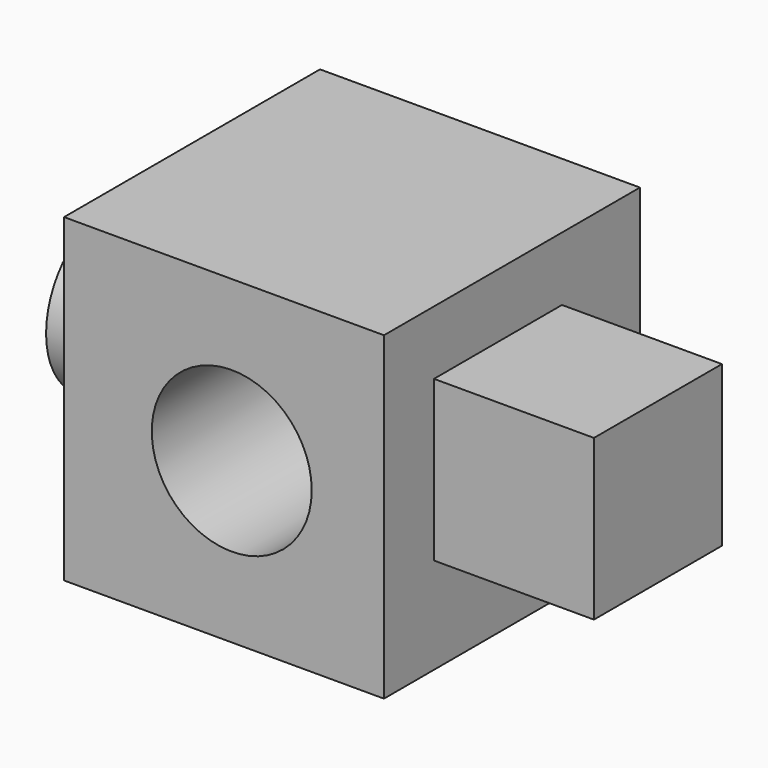
from build123d import *

# Parameters (mm, degrees)
F0_W     = 50.8
F0_H     = 50.8
F2_DEPTH = 50.8
F1_R     = 12.7
F3_DEPTH = 50.8
F4_R     = 12.7
F5_DEPTH = 12.7
F6_W     = 25.4
F6_H     = 25.4
F7_DEPTH = 25.4


with BuildPart() as f2:
    # F0 (on Front) → F2 (new body)
    with BuildSketch(Plane.XZ):
        with Locations((-25.4, 25.4)):
            Rectangle(F0_W, F0_H)
    extrude(amount=F2_DEPTH)

    # F1 (on Front) → F3 (cut)
    with BuildSketch(Plane.XZ):
        with Locations((-24.174957, 25.38876)):
            Circle(F1_R)
    extrude(amount=F3_DEPTH, mode=Mode.SUBTRACT)

    # F4 (on face) → F5 (join)
    with BuildSketch(Plane(origin=(-50.8, 0, 0), x_dir=(0, -1, 0), z_dir=(-1, 0, 0))):
        with Locations((25.793362, 25.38876)):
            Circle(F4_R)
    extrude(amount=F5_DEPTH)

    # F6 (on Right) → F7 (join)
    with BuildSketch(Plane.YZ):
        with Locations((-28.176018, 27.973717)):
            Rectangle(F6_W, F6_H)
    extrude(amount=F7_DEPTH)


solid = f2.part
